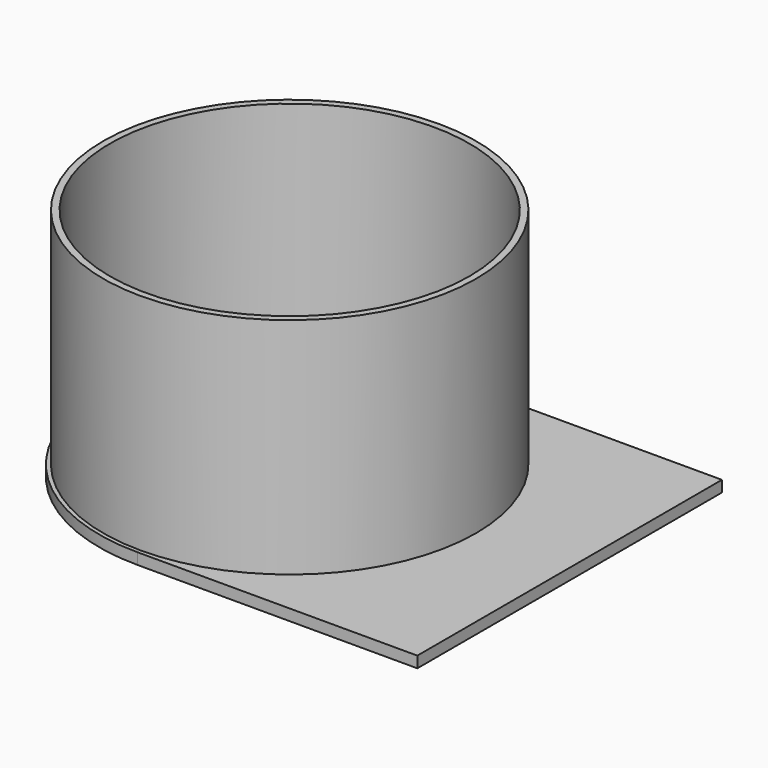
from build123d import *

# Parameters (mm, degrees)
F0_R     = 16.05
F1_DEPTH = 1
F2_R     = 16.65
F2_R_2   = 16.05
F3_DEPTH = 20


with BuildPart() as f1:
    # F0 (on Top) → F1 (new body)
    with BuildSketch(Plane.XY):
        with BuildLine():
            ThreePointArc((0, -17), (12.020815, -12.020815), (17, 0))
            ThreePointArc((17, 0), (12.020815, 12.020815), (0, 17))
            ThreePointArc((0, 17), (-17, 0), (0, -17))
        make_face()
        Circle(F0_R, mode=Mode.SUBTRACT)
        with BuildLine():
            ThreePointArc((0, 17), (12.020815, 12.020815), (17, 0))
            ThreePointArc((17, 0), (12.020815, -12.020815), (0, -17))
            Line((0, -17), (25, -17))
            Line((25, -17), (25, 17))
            Line((25, 17), (0, 17))
        make_face()
    extrude(amount=F1_DEPTH)

    # F2 (on face) → F3 (join)
    with BuildSketch(Plane.XY.offset(1)):
        Circle(F2_R)
        Circle(F2_R_2, mode=Mode.SUBTRACT)
    extrude(amount=F3_DEPTH)


solid = f1.part
